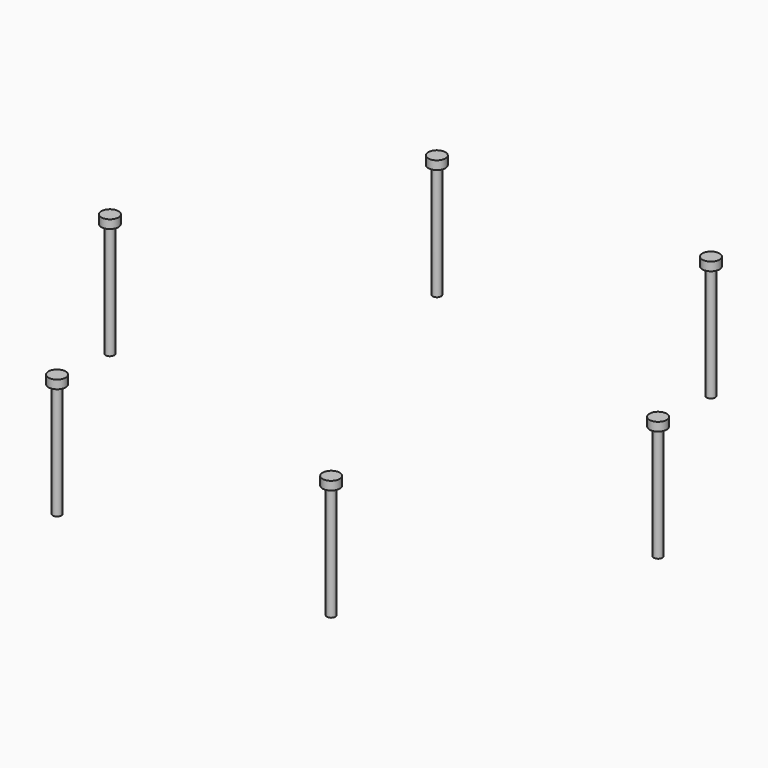
from build123d import *

# Parameters (mm, degrees)
CYLINDER003_R     = 3
CYLINDER003_DEPTH = 3
CYLINDER002_R     = 1.5
CYLINDER002_DEPTH = 40
ARRAY_COUNT       = 6


with BuildPart() as cylinder002:
    # Cylinder003 → Cylinder003 (new body)
    with BuildSketch(Plane(origin=(96, 0, 30), x_dir=(1, 0, 0), z_dir=(0, 0, 1))):
        Circle(CYLINDER003_R)
    extrude(amount=CYLINDER003_DEPTH)


with BuildPart() as bed_screws:
    # Cylinder002 → Cylinder002 (new body)
    with BuildSketch(Plane(origin=(96, 0, -10), x_dir=(1, 0, 0), z_dir=(0, 0, 1))):
        Circle(CYLINDER002_R)
    extrude(amount=CYLINDER002_DEPTH)

    # Fusion: union Cylinder002
    add(cylinder002.part)


with BuildPart() as bed_screws_1:
    # Fusion placement: moved
    add(bed_screws.part.moved(Location((0, 0, -30))))

    # Array: bed_screws ×6 about axis
    array_axis = Axis((0, 0, 0), (0, 0, 1))


with BuildPart() as bed_screws_2:
    add(bed_screws_1.part)
    for i in range(1, ARRAY_COUNT):
        add(bed_screws_1.part.rotate(array_axis, i * 360 / ARRAY_COUNT))


solid = bed_screws_2.part
